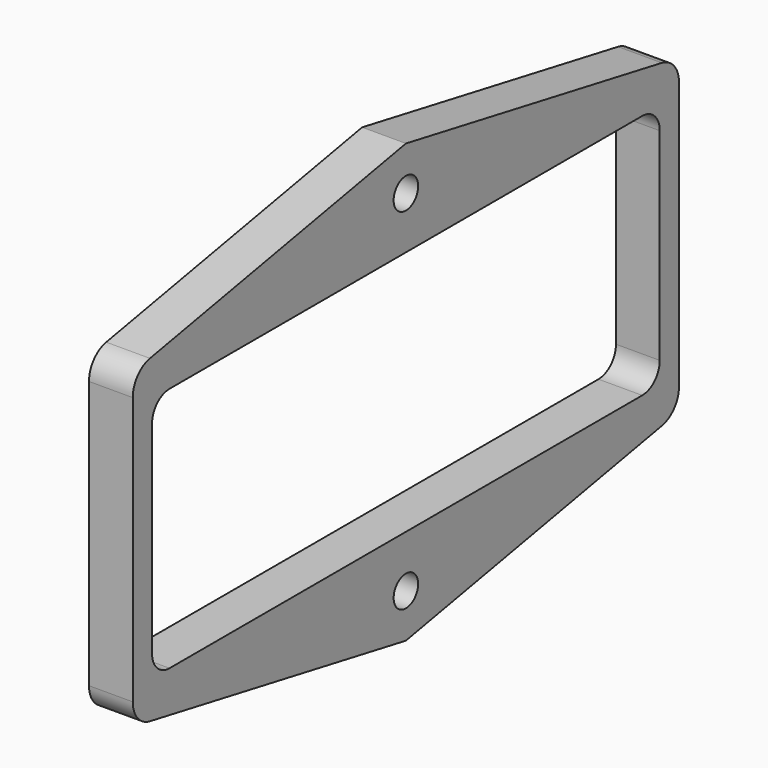
from build123d import *

# Parameters (mm, degrees)
PAD_DEPTH    = 5
SKETCH_R     = 1.75
POCKET_DEPTH = 5


with BuildPart() as part:
    # Sketch001 → Pad (new body)
    with BuildSketch(Plane.YZ):
        with BuildLine():
            Line((39, 9.701271), (39, 40.298729))
            ThreePointArc((39, 40.298729), (38.305966, 42.217718), (36.544988, 43.248811))
            Line((36.544988, 43.248811), (0, 50))
            Line((0, 50), (-36.544988, 43.248811))
            ThreePointArc((-36.544988, 43.248811), (-38.305966, 42.217718), (-39, 40.298729))
            Line((-39, 40.298729), (-39, 9.701271))
            ThreePointArc((-39, 9.701271), (-38.305966, 7.782282), (-36.544988, 6.751189))
            Line((-36.544988, 6.751189), (0, 0))
            Line((0, 0), (36.544988, 6.751189))
            ThreePointArc((36.544988, 6.751189), (38.305966, 7.782282), (39, 9.701271))
        make_face()
    extrude(amount=PAD_DEPTH)

    # Sketch → Pocket (cut)
    with BuildSketch(Plane.YZ):
        with Locations((0, 45)):
            Circle(SKETCH_R)
        with Locations((0, 5)):
            Circle(SKETCH_R)
        with BuildLine():
            Line((-33.75, 10.95), (33.75, 10.95))
            ThreePointArc((33.75, 10.95), (35.517767, 11.682233), (36.25, 13.45))
            Line((36.25, 13.45), (36.25, 36.55))
            ThreePointArc((36.25, 36.55), (35.517767, 38.317767), (33.75, 39.05))
            Line((33.75, 39.05), (-33.75, 39.05))
            ThreePointArc((-33.75, 39.05), (-35.517767, 38.317767), (-36.25, 36.55))
            Line((-36.25, 36.55), (-36.25, 13.45))
            ThreePointArc((-36.25, 13.45), (-35.517767, 11.682233), (-33.75, 10.95))
        make_face()
    extrude(amount=POCKET_DEPTH, mode=Mode.SUBTRACT)


solid = part.part
